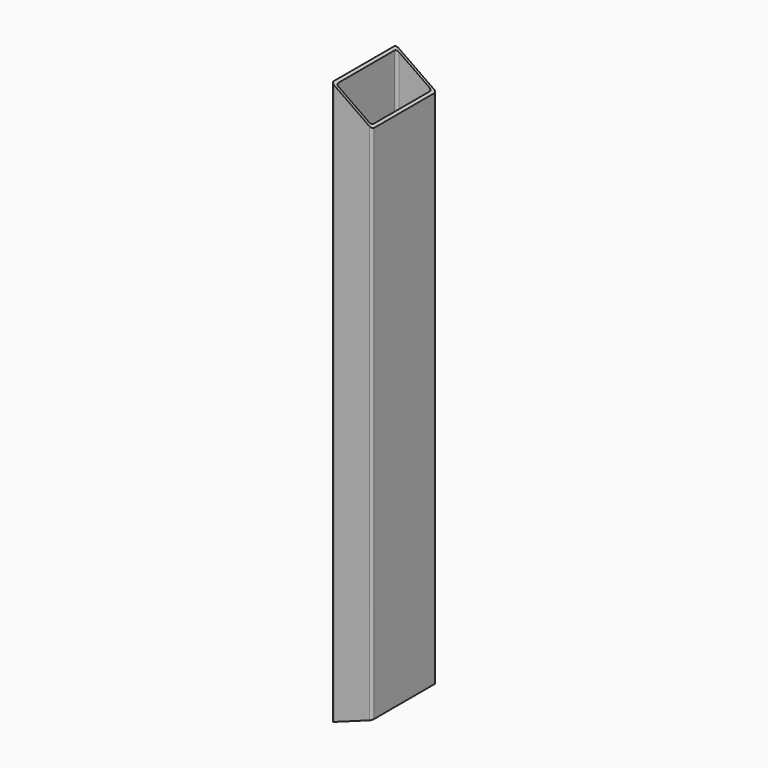
from build123d import *

# Parameters (mm, degrees)
F1_DEPTH      = 711.2
F3_DEPTH      = 50.801
F3_DEPTH_BACK = 50.801
F5_DEPTH      = 50.801
F5_DEPTH_BACK = 50.801


with BuildPart() as f1:
    # F0 (on Top) → F1 (new body)
    with BuildSketch(Plane.XY):
        with BuildLine():
            Line((-22.225, -50.8), (22.225, -50.8))
            ThreePointArc((22.225, -50.8), (24.4700640303, -49.8700640303), (25.4, -47.625))
            Line((25.4, -47.625), (25.4, 47.625))
            ThreePointArc((25.4, 47.625), (24.4700640303, 49.8700640303), (22.225, 50.8))
            Line((22.225, 50.8), (-22.225, 50.8))
            ThreePointArc((-22.225, 50.8), (-24.4700640303, 49.8700640303), (-25.4, 47.625))
            Line((-25.4, 47.625), (-25.4, -47.625))
            ThreePointArc((-25.4, -47.625), (-24.4700640303, -49.8700640303), (-22.225, -50.8))
        make_face()
        with BuildLine():
            ThreePointArc((22.225, -44.45), (21.2950640303, -46.6950640303), (19.05, -47.625))
            Line((19.05, -47.625), (-19.05, -47.625))
            ThreePointArc((-19.05, -47.625), (-21.2950640303, -46.6950640303), (-22.225, -44.45))
            Line((-22.225, -44.45), (-22.225, 44.45))
            ThreePointArc((-22.225, 44.45), (-21.2950640303, 46.6950640303), (-19.05, 47.625))
            Line((-19.05, 47.625), (19.05, 47.625))
            ThreePointArc((19.05, 47.625), (21.2950640303, 46.6950640303), (22.225, 44.45))
            Line((22.225, 44.45), (22.225, -44.45))
        make_face(mode=Mode.SUBTRACT)
    extrude(amount=F1_DEPTH)

    # F2 (on Front) → F3 (cut, two sides)
    with BuildSketch(Plane.XZ) as f3_sk:
        Polygon((25.4, 18.4896879007), (-25.4, 0), (25.4, 0), align=None)
    extrude(amount=-F3_DEPTH, mode=Mode.SUBTRACT)
    extrude(f3_sk.sketch, amount=F3_DEPTH_BACK, mode=Mode.SUBTRACT)

    # F4 (on Front) → F5 (cut, two sides)
    with BuildSketch(Plane.XZ) as f5_sk:
        Polygon((25.4, 711.2), (-25.4, 711.2), (25.4, 675.6294570589), align=None)
    extrude(amount=-F5_DEPTH, mode=Mode.SUBTRACT)
    extrude(f5_sk.sketch, amount=F5_DEPTH_BACK, mode=Mode.SUBTRACT)


solid = f1.part
